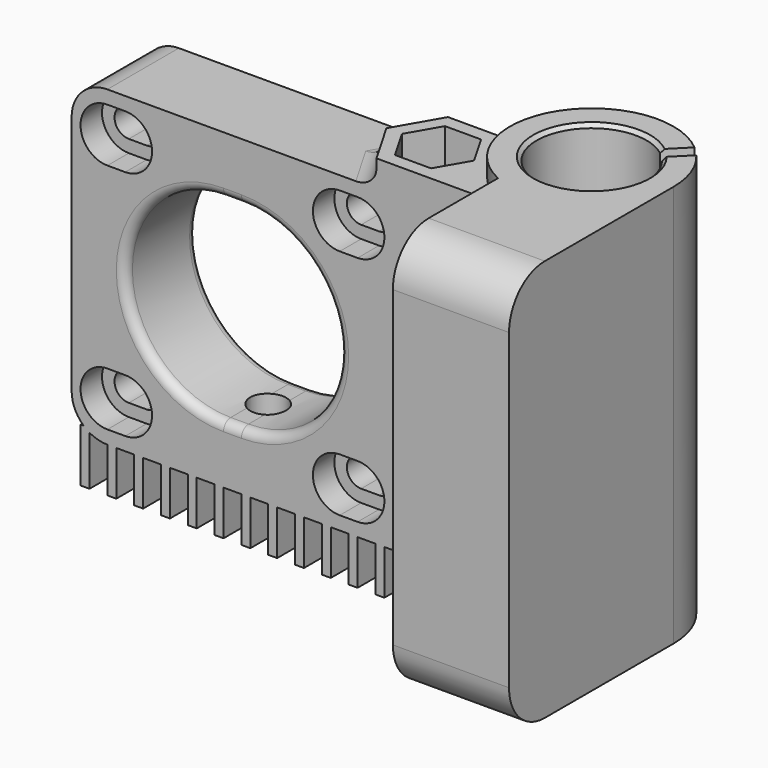
from build123d import *

# Parameters (mm, degrees)
BOX_W                       = 1
BOX_H                       = 10
BOX_DEPTH                   = 6
ARRAY_X_COUNT               = 14
ARRAY_X_PITCH               = 3
CYLINDER001_R               = 2
CYLINDER001_DEPTH           = 24
CYLINDER001_ROLL_ANGLE      = 90.000017
CYLINDER001_PITCH_ANGLE     = 4e-06
CYLINDER001_PLACEMENT_ANGLE = -26.000031
SKETCH_R                    = 6.15
PAD_DEPTH                   = 45
POCKET_DEPTH                = 45.001
POCKET001_DEPTH             = 11
POCKET002_DEPTH             = 11
FILLET_R                    = 5
SKETCH009_W                 = 6.12
SKETCH009_H                 = 13.5
POCKET006_DEPTH             = 8
CYLINDER_R                  = 2.7
CYLINDER_DEPTH              = 60
PAD001_DEPTH                = 17.5
SKETCH005_R                 = 11
POCKET003_DEPTH             = 10.001
POCKET004_DEPTH             = 3
FILLET001_R                 = 4
SKETCH007_R                 = 2.7
PAD002_DEPTH                = 3
FILLET002_R                 = 2
POCKET005_DEPTH             = 4
FILLET003_R                 = 1
FILLET004_R                 = 2
FILLET005_R                 = 2
SKETCH010_R                 = 13
PAD003_DEPTH                = 10
SKETCH011_R                 = 13
PAD004_DEPTH                = 5
POCKET007_DEPTH             = 24.001
FILLET006_R                 = 1
SKETCH013_R                 = 2
POCKET008_DEPTH             = 10
SKETCH014_W                 = 2.12
SKETCH014_H                 = 13.5
POCKET009_DEPTH             = 3
SKETCH015_W                 = 4
SKETCH015_H                 = 9.5
POCKET010_DEPTH             = 11
CHAMFER_SIZE                = 1
CHAMFER001_SIZE             = 1
CHAMFER002_SIZE             = 0.4


with BuildPart() as soporte:
    # Box → Box (new body)
    with BuildSketch(Plane(origin=(10, -9, 0), x_dir=(1, 0, 0), z_dir=(0, 0, 1))):
        with Locations((0.5, 5)):
            Rectangle(BOX_W, BOX_H)
    extrude(amount=BOX_DEPTH)

    # Array X: soporte ×14


with BuildPart() as soporte_1:
    add(soporte.part)
    with Locations(*[(i * ARRAY_X_PITCH, 0, 0) for i in range(1, ARRAY_X_COUNT)]):
        add(soporte.part)


with BuildPart() as cilindro:
    # Cylinder001 → Cylinder001 (new body)
    with BuildSketch(Plane.XY):
        Circle(CYLINDER001_R)
    extrude(amount=CYLINDER001_DEPTH)


with BuildPart() as cilindro_1:
    # Cylinder001 roll: moved
    add(cilindro.part.rotate(Axis((0, 0, 0), (1, 0, 0)), CYLINDER001_ROLL_ANGLE))


with BuildPart() as cilindro_2:
    # Cylinder001 pitch: moved
    add(cilindro_1.part.rotate(Axis((0, 0, 0), (0, 1, 0)), CYLINDER001_PITCH_ANGLE))


with BuildPart() as cilindro_3:
    # Cylinder001 placement: moved
    add(cilindro_2.part.moved(Location((16.3443, 10.8662, 22))).rotate(Axis((16.3443, 10.8662, 22), (0, 0, 1)), CYLINDER001_PLACEMENT_ANGLE))


with BuildPart() as pocket006:
    # Sketch → Pad (new body)
    with BuildSketch(Plane.XY):
        with BuildLine():
            Line((3.85, -8.300602), (3.85, -23))
            Line((3.85, -23), (-9.15, -23))
            Line((-9.15, -23), (-9.15, 0))
            ThreePointArc((3.85, -8.300602), (4.924175, 7.712004), (-9.15, 0))
        make_face()
        Circle(SKETCH_R, mode=Mode.SUBTRACT)
    extrude(amount=PAD_DEPTH)

    # Sketch001 → Pocket (cut, through all)
    with BuildSketch(Plane.XY.offset(45)):
        Polygon((-8.268504, 7.207843), (-4.025863, 2.965203), (-2.965203, 4.025863), (-7.207843, 8.268504), align=None)
    extrude(amount=-POCKET_DEPTH, mode=Mode.SUBTRACT)

    # Sketch002 → Pocket001 (cut)
    with BuildSketch(Plane.YZ.offset(3.85)):
        with BuildLine():
            ThreePointArc((-19.227385, 7.727388), (-17.000003, 2.35), (-14.772611, 7.727384))
            Line((-14.772611, 7.727384), (-15.999996, 8.954773))
            Line((-17.999996, 8.954773), (-15.999996, 8.954773))
            Line((-19.227385, 7.727388), (-17.999996, 8.954773))
        make_face()
    extrude(amount=-POCKET001_DEPTH, mode=Mode.SUBTRACT)

    # Sketch003 → Pocket002 (cut)
    with BuildSketch(Plane.YZ.offset(3.85)):
        with BuildLine():
            ThreePointArc((-19.227388, 41.727385), (-16.999999, 36.35), (-14.772614, 41.727387))
            Line((-16.000002, 42.954773), (-14.772614, 41.727387))
            Line((-18.000002, 42.954773), (-16.000002, 42.954773))
            Line((-19.227388, 41.727385), (-18.000002, 42.954773))
        make_face()
    extrude(amount=-POCKET002_DEPTH, mode=Mode.SUBTRACT)

    # Fillet
    fillet_edges = [pocket006.edges().sort_by_distance(p)[0] for p in [
        (-2.65, -23, 45),
        (-2.65, -23, 0),
    ]]
    fillet(fillet_edges, radius=FILLET_R)

    # Sketch009 → Pocket006 (cut)
    with BuildSketch(Plane.YZ.offset(3.85)):
        with Locations((-18.96, 26.75)):
            Rectangle(SKETCH009_W, SKETCH009_H)
    extrude(amount=-POCKET006_DEPTH, mode=Mode.SUBTRACT)


with BuildPart() as tornillo:
    # Cylinder → Cylinder (new body)
    with BuildSketch(Plane(origin=(14, -4, 0), x_dir=(1, 0, 0), z_dir=(0, 0, 1))):
        Circle(CYLINDER_R)
    extrude(amount=CYLINDER_DEPTH)


with BuildPart() as fusion001:
    # Sketch004 → Pad001 (new body, symmetric)
    with BuildSketch(Plane.XY.offset(22.5)):
        with BuildLine():
            ThreePointArc((2, -7.745967), (6.61893, -4.493302), (7.937254, 1))
            Line((7.937254, 1), (51, 1))
            Line((51, 1), (51, -9))
            Line((51, -9), (2, -9))
            Line((2, -9), (2, -7.745967))
        make_face()
    extrude(amount=PAD001_DEPTH, both=True)

    # Sketch005 → Pocket003 (cut, through all)
    with BuildSketch(Plane(origin=(0, -9, 22.5), x_dir=(1, 0, 0), z_dir=(0, -1, 0))):
        with Locations((33, 0)):
            Circle(SKETCH005_R)
        with BuildLine():
            ThreePointArc((19, 14.6), (17.4, 13), (19, 11.4))
            Line((19, 11.4), (21, 11.4))
            ThreePointArc((21, 11.4), (22.6, 13), (21, 14.6))
            Line((19, 14.6), (21, 14.6))
        make_face()
        with BuildLine():
            ThreePointArc((45, 14.6), (43.4, 13), (45, 11.4))
            Line((45, 11.4), (47, 11.4))
            ThreePointArc((47, 11.4), (48.6, 13), (47, 14.6))
            Line((45, 14.6), (47, 14.6))
        make_face()
        with BuildLine():
            ThreePointArc((19, -11.4), (17.4, -13), (19, -14.6))
            Line((19, -14.6), (21, -14.6))
            ThreePointArc((21, -14.6), (22.6, -13), (21, -11.4))
            Line((19, -11.4), (21, -11.4))
        make_face()
        with BuildLine():
            ThreePointArc((45, -11.4), (43.4, -13), (45, -14.6))
            Line((45, -14.6), (47, -14.6))
            ThreePointArc((47, -14.6), (48.6, -13), (47, -11.4))
            Line((45, -11.4), (47, -11.4))
        make_face()
    extrude(amount=-POCKET003_DEPTH, mode=Mode.SUBTRACT)

    # Sketch006 → Pocket004 (cut)
    with BuildSketch(Plane(origin=(0, -9, 22.5), x_dir=(1, 0, 0), z_dir=(0, -1, 0))):
        with BuildLine():
            ThreePointArc((19, 16), (16, 13), (19, 10))
            Line((19, 10), (21, 10))
            ThreePointArc((21, 10), (24, 13), (21, 16))
            Line((19, 16), (21, 16))
        make_face()
        with BuildLine():
            ThreePointArc((45, 16), (42, 13), (45, 10))
            Line((45, 10), (47, 10))
            ThreePointArc((47, 10), (50, 13), (47, 16))
            Line((45, 16), (47, 16))
        make_face()
        with BuildLine():
            ThreePointArc((19, -10), (16, -13), (19, -16))
            Line((19, -16), (21, -16))
            ThreePointArc((21, -16), (24, -13), (21, -10))
            Line((19, -10), (21, -10))
        make_face()
        with BuildLine():
            ThreePointArc((45, -10), (42, -13), (45, -16))
            Line((45, -16), (47, -16))
            ThreePointArc((47, -16), (50, -13), (47, -10))
            Line((45, -10), (47, -10))
        make_face()
    extrude(amount=-POCKET004_DEPTH, mode=Mode.SUBTRACT)

    # Cut: cut tornillo
    add(tornillo.part, mode=Mode.SUBTRACT)

    # Fillet001
    fillet001_edges = [fusion001.edges().sort_by_distance(p)[0] for p in [
        (51, -4, 40),
        (51, -4, 5),
    ]]
    fillet(fillet001_edges, radius=FILLET001_R)

    # Sketch007 → Pad002 (new body)
    with BuildSketch(Plane.XY.offset(40)):
        with BuildLine():
            Line((16.886751, -9), (19.773503, -4))
            Line((19.773503, -4), (16.886751, 1))
            Line((16.886751, 1), (11.113249, 1))
            Line((11.113249, 1), (8.440972, 1))
            ThreePointArc((3.613249, -7.693792), (7.431121, -4.126553), (8.440972, 1))
            Line((3.613249, -7.693792), (3.613249, -9))
            Line((11.113249, -9), (3.613249, -9))
            Line((11.113249, -9), (16.886751, -9))
        make_face()
        with Locations((14, -4)):
            Circle(SKETCH007_R, mode=Mode.SUBTRACT)
    extrude(amount=PAD002_DEPTH)

    # Fillet002
    fillet002_edges = [fusion001.edges().sort_by_distance(p)[0] for p in [
        (18.330127, -6.5, 40),
        (18.330127, -1.5, 40),
    ]]
    fillet(fillet002_edges, radius=FILLET002_R)

    # Sketch008 → Pocket005 (cut)
    with BuildSketch(Plane.XY.offset(43)):
        Polygon((16.020726, -7.5), (18.041452, -4), (16.020726, -0.5), (11.979274, -0.5), (9.958548, -4), (11.979274, -7.5), align=None)
    extrude(amount=-POCKET005_DEPTH, mode=Mode.SUBTRACT)

    # Fillet003
    fillet003_edges = [fusion001.edges().sort_by_distance(p)[0] for p in [
        (22, 1, 22.5),
        (22, -9, 22.5),
    ]]
    fillet(fillet003_edges, radius=FILLET003_R)

    # Fusion: union Pocket006
    add(pocket006.part)

    # Fillet004
    fillet004_edges = [fusion001.edges().sort_by_distance(p)[0] for p in [
        (9.095191, 1, 24),
    ]]
    fillet(fillet004_edges, radius=FILLET004_R)

    # Fillet005
    fillet005_edges = [fusion001.edges().sort_by_distance(p)[0] for p in [
        (3.85, -9, 24),
    ]]
    fillet(fillet005_edges, radius=FILLET005_R)

    # Sketch010 → Pad003 (new body)
    with BuildSketch(Plane.XZ.offset(9)):
        with Locations((33, 22.5)):
            Circle(SKETCH010_R)
    extrude(amount=-PAD003_DEPTH)

    # Sketch011 → Pad004 (new body)
    with BuildSketch(Plane(origin=(0, 1, 0), x_dir=(-1, 0, 0), z_dir=(0, 1, 0))):
        with Locations((-33, 22.5)):
            Circle(SKETCH011_R)
    extrude(amount=-PAD004_DEPTH)

    # Sketch012 → Pocket007 (cut, through all)
    with BuildSketch(Plane(origin=(0, 1, 0), x_dir=(-1, 0, 0), z_dir=(0, 1, 0))):
        with BuildLine():
            ThreePointArc((-34, 33.5), (-45, 22.5), (-34, 11.5))
            Line((-34, 11.5), (-32, 11.5))
            ThreePointArc((-32, 11.5), (-21, 22.5), (-32, 33.5))
            Line((-34, 33.5), (-32, 33.5))
        make_face()
    extrude(amount=-POCKET007_DEPTH, mode=Mode.SUBTRACT)

    # Fillet006
    fillet006_edges = [fusion001.edges().sort_by_distance(p)[0] for p in [
        (21, 1, 22.5),
        (41.778175, 1, 14.721825),
        (21, -9, 22.5),
        (45, -9, 22.5),
        (41.778175, 1, 30.278175),
        (33, -9, 11.5),
        (33, 1, 11.5),
        (33, 1, 33.5),
        (33, -9, 33.5),
    ]]
    fillet(fillet006_edges, radius=FILLET006_R)

    # Sketch013 → Pocket008 (cut)
    with BuildSketch(Plane(origin=(0, 0, 5), x_dir=(1, 0, 0), z_dir=(0, 0, -1))):
        with Locations((33, 4)):
            Circle(SKETCH013_R)
    extrude(amount=-POCKET008_DEPTH, mode=Mode.SUBTRACT)

    # Sketch014 → Pocket009 (cut)
    with BuildSketch(Plane.YZ.offset(-4.15)):
        with Locations((-18.96, 26.75)):
            Rectangle(SKETCH014_W, SKETCH014_H)
    extrude(amount=-POCKET009_DEPTH, mode=Mode.SUBTRACT)

    # Cut001: cut Cilindro
    add(cilindro_3.part, mode=Mode.SUBTRACT)

    # Fusion001: union soporte
    add(soporte_1.part)


with BuildPart() as chamfer002:
    # Part__Mirroring: instance of Fusion001
    add(fusion001.part.mirror(Plane(origin=(0, 0, 0), x_dir=(0, -1, 0), z_dir=(1, 0, 0))))

    # Sketch015 → Pocket010 (cut)
    with BuildSketch(Plane(origin=(-3.85, 0, 0), x_dir=(0, -1, 0), z_dir=(-1, 0, 0))):
        with Locations((16.8, 26.75)):
            Rectangle(SKETCH015_W, SKETCH015_H)
    extrude(amount=-POCKET010_DEPTH, mode=Mode.SUBTRACT)

    # Chamfer
    chamfer_edges = [chamfer002.edges().sort_by_distance(p)[0] for p in [
        (0.15, -15.9, 31.5),
        (4.15, -16.9, 31.5),
    ]]
    chamfer(chamfer_edges, length=CHAMFER_SIZE)

    # Chamfer001
    chamfer001_edges = [chamfer002.edges().sort_by_distance(p)[0] for p in [
        (6.15, -17.9, 31.5),
    ]]
    chamfer(chamfer001_edges, length=CHAMFER001_SIZE)

    # Chamfer002
    chamfer002_edges = [chamfer002.edges().sort_by_distance(p)[0] for p in [
        (-2.696211, 5.527472, 45),
        (2.002004, -5.815022, 45),
        (-2.696211, 5.527472, 0),
        (2.002004, -5.815022, 0),
    ]]
    chamfer(chamfer002_edges, length=CHAMFER002_SIZE)


solid = chamfer002.part
